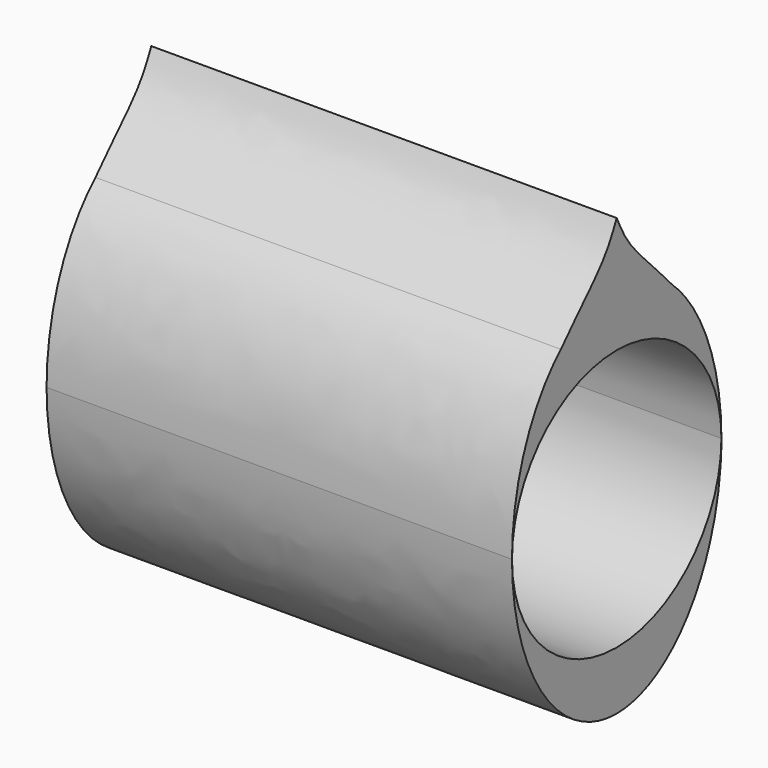
from build123d import *

# Parameters (mm, degrees)
F1_DEPTH = 203.2


with BuildPart() as f1:
    # F0 (on Right) → F1 (new body)
    with BuildSketch(Plane.YZ):
        with BuildLine():
            ThreePointArc((-57.15, 4.662e-07), (2.331e-07, 57.15), (57.15, 0))
            add(Edge.make_bspline(
                [(57.15, 0), (57.15, 45.5660748492), (30.4574472777, 69.85)],
                knots=[4.7123889804, 4.7123889804, 4.7123889804, 5.7211155042, 5.7211155042, 5.7211155042], degree=2, weights=[1, 0.8754823556, 1]))
            add(Edge.make_bspline(
                [(30.4574472777, 69.85), (22.353595846, 79.0299545271), (6.1492050592, 93.7377079612), (1.8810714701, 104.0494172792), (0, 107.95)],
                knots=[0, 0, 0, 0, 0.6063584653, 1, 1, 1, 1], degree=3))
            add(Edge.make_bspline(
                [(-30.4574472777, 69.85), (-22.353595846, 79.0299545271), (-6.1492050592, 93.7377079612), (-1.8810714701, 104.0494172792), (0, 107.95)],
                knots=[0, 0, 0, 0, 0.6063584653, 1, 1, 1, 1], degree=3))
            add(Edge.make_bspline(
                [(-30.4574472777, 69.85), (-57.1499998218, 45.5660750112), (-57.15, 4.662e-07)],
                knots=[0.562069803, 0.562069803, 0.562069803, 1.5707963211, 1.5707963211, 1.5707963211], degree=2, weights=[1, 0.875482357, 1]))
        make_face()
    extrude(amount=F1_DEPTH)


with BuildPart() as f1b:
    # F0 (on Right) → F1, piece 2 (new body)
    with BuildSketch(Plane.YZ):
        with BuildLine():
            add(Edge.make_bspline(
                [(-57.15, 4.662e-07), (-57.1500003228, -82.5499997669), (-1.614e-07, -82.55), (57.15, -82.5500002331), (57.15, 0)],
                knots=[1.5707963211, 1.5707963211, 1.5707963211, 3.1415926508, 3.1415926508, 4.7123889804, 4.7123889804, 4.7123889804], degree=2, weights=[1, 0.7071067802, 1, 0.7071067802, 1]))
            ThreePointArc((57.15, 0), (-2.331e-07, -57.15), (-57.15, 4.662e-07))
        make_face()
    extrude(amount=F1_DEPTH)


solid = Compound([f1.part, f1b.part])
